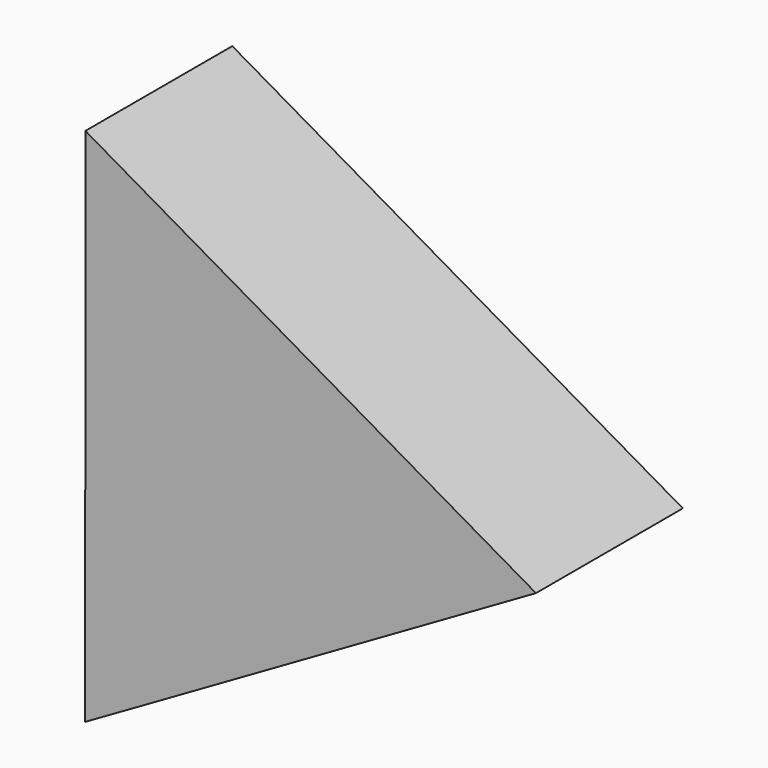
from build123d import *

# Parameters (mm, degrees)
F2_DEPTH = 50.8


with BuildPart() as f2:
    # F1 (on Front) → F2 (new body)
    with BuildSketch(Plane.XZ):
        Polygon((-29.3797850609, 50.8872804409), (-29.3797850609, -50.8872804409), (58.7595701218, 0), align=None)
    extrude(amount=F2_DEPTH)


with BuildPart() as f2b:
    # F0 (on Front) → F2, piece 2 (new body)
    with BuildSketch(Plane.XZ):
        Polygon((-41.6054015953, -71.9799714921), (83.1391846735, -0.0413489701), (-41.5337830782, 72.0213204622), align=None)
    extrude(amount=F2_DEPTH)


solid = Compound([f2.part, f2b.part])
